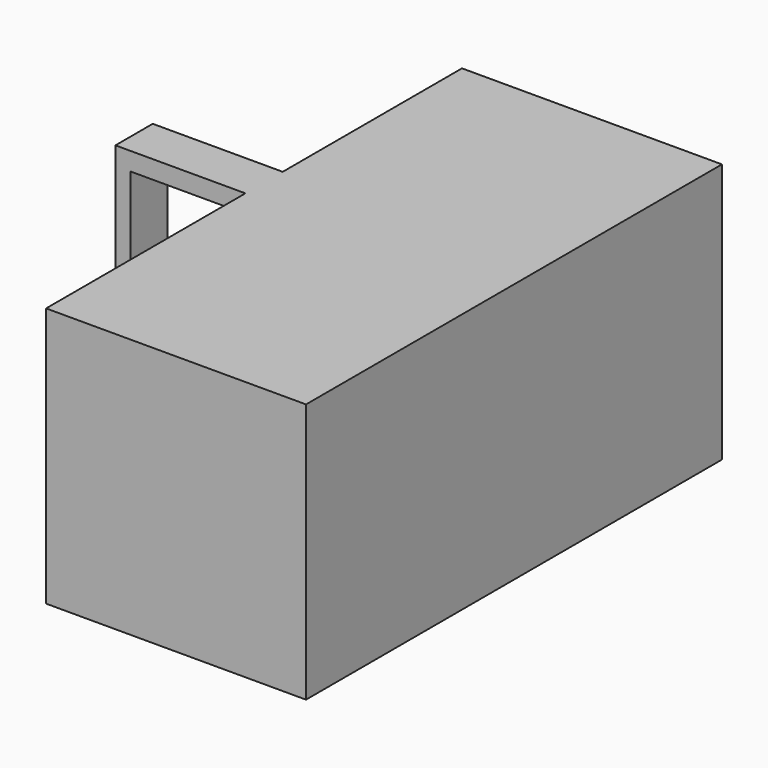
from build123d import *

# Parameters (mm, degrees)
F0_W     = 25.4
F0_H     = 25.4
F1_DEPTH = 50.8
F2_W     = 4.558041
F2_H     = 25.4
F3_DEPTH = 12.7
F4_W     = 11.245678
F4_H     = 21.608493
F5_DEPTH = 25.4


with BuildPart() as f1:
    # F0 (on Front) → F1 (new body)
    with BuildSketch(Plane.XZ):
        with Locations((-21.452703, 12.7)):
            Rectangle(F0_W, F0_H)
    extrude(amount=F1_DEPTH)

    # F2 (on face) → F3 (join)
    with BuildSketch(Plane(origin=(-34.152703, 0, 0), x_dir=(0, -1, 0), z_dir=(-1, 0, 0))):
        with Locations((24.176082, 12.7)):
            Rectangle(F2_W, F2_H)
    extrude(amount=F3_DEPTH)

    # F4 (on face) → F5 (cut)
    with BuildSketch(Plane(origin=(0, -21.897061, 0), x_dir=(-1, 0, 0), z_dir=(0, 1, 0))):
        with Locations((39.775542, 12.82661)):
            Rectangle(F4_W, F4_H)
    extrude(amount=-F5_DEPTH, mode=Mode.SUBTRACT)


solid = f1.part
